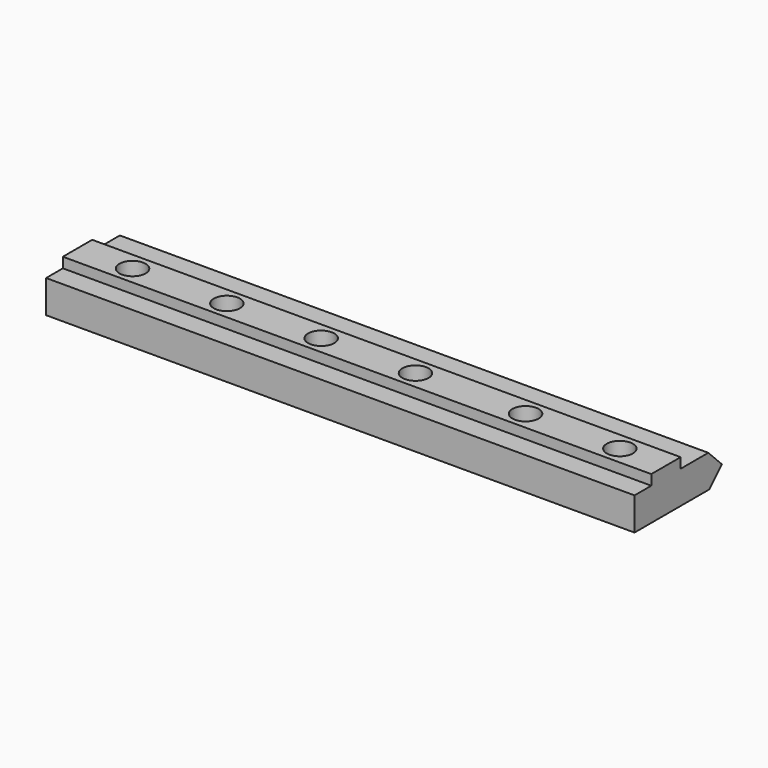
from build123d import *

# Parameters (mm, degrees)
F1_DEPTH = 561.5
F2_R     = 25
F3_DEPTH = 82.001


with BuildPart() as f1:
    # F0 (on Right) → F1 (new body, symmetric)
    with BuildSketch(Plane.YZ):
        Polygon((0, 62.5), (0, 0), (178.5, 0), (208.5, 30), (176, 62.5), (110, 62.5), (110, 82), (40, 82), (40, 62.5), align=None)
    extrude(amount=F1_DEPTH, both=True)

    # F2 (on face) → F3 (cut, through all)
    with BuildSketch(Plane.XY.offset(82)):
        with Locations((473.5, 75)):
            Circle(F2_R)
        with Locations((293.5, 75)):
            Circle(F2_R)
        with Locations((83.5, 75)):
            Circle(F2_R)
        with Locations((-96.5, 75)):
            Circle(F2_R)
        with Locations((-276.5, 75)):
            Circle(F2_R)
        with Locations((-456.5, 75)):
            Circle(F2_R)
    extrude(amount=-F3_DEPTH, mode=Mode.SUBTRACT)


solid = f1.part
